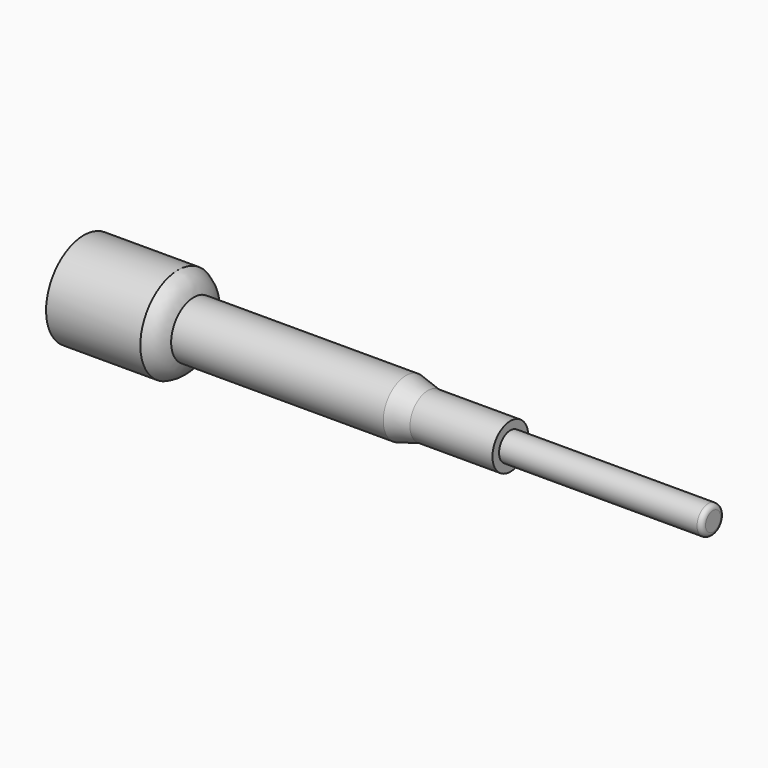
from build123d import *

# Parameters (mm, degrees)
F2_R = 2


with BuildPart() as f1:
    # F0 (on Front) → F1 (revolve)
    with BuildSketch(Plane.XZ):
        with BuildLine():
            Line((0, 0), (267, 0))
            Line((267, 0), (267, 6))
            Line((267, 6), (181, 6))
            Line((181, 6), (181, 9.5))
            Line((181, 9.5), (146, 9.5))
            Line((146, 9.5), (136.669873, 12))
            Line((136.669873, 12), (46.669873, 12))
            ThreePointArc((46.669873, 12), (44.341818, 16.839471), (40, 20))
            Line((40, 20), (0, 20))
            Line((0, 20), (0, 0))
        make_face()
    revolve(axis=Axis((133.5, 0, 0), (1, 0, 0)))

    # F2
    f2_edges = [f1.edges().sort_by_distance(p)[0] for p in [
        (267, 0, -6),
    ]]
    fillet(f2_edges, radius=F2_R)


solid = f1.part
